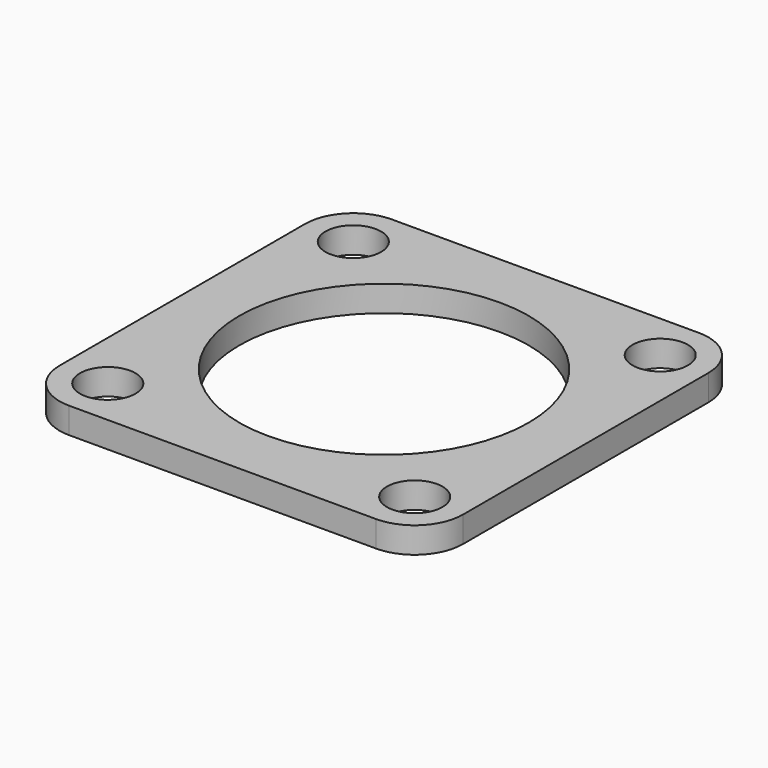
from build123d import *

# Parameters (mm, degrees)
F0_W     = 26.555576
F0_H     = 26.555576
F0_R     = 1.8288
F0_R_2   = 9.525
F1_DEPTH = 1.70942
F2_R     = 3.175


with BuildPart() as f1:
    # F0 (on Top) → F1 (new body)
    with BuildSketch(Plane.XY):
        Rectangle(F0_W, F0_H)
        with Locations((-10.102788, -10.102788)):
            Circle(F0_R, mode=Mode.SUBTRACT)
        with Locations((10.102788, -10.102788)):
            Circle(F0_R, mode=Mode.SUBTRACT)
        Circle(F0_R_2, mode=Mode.SUBTRACT)
        with Locations((-10.102788, 10.102788)):
            Circle(F0_R, mode=Mode.SUBTRACT)
        with Locations((10.102788, 10.102788)):
            Circle(F0_R, mode=Mode.SUBTRACT)
    extrude(amount=F1_DEPTH)

    # F2
    f2_edges = [f1.edges().sort_by_distance(p)[0] for p in [
        (-13.277788, 13.277788, 0.85471),
        (13.277788, 13.277788, 0.85471),
        (13.277788, -13.277788, 0.85471),
        (-13.277788, -13.277788, 0.85471),
    ]]
    fillet(f2_edges, radius=F2_R)


solid = f1.part
